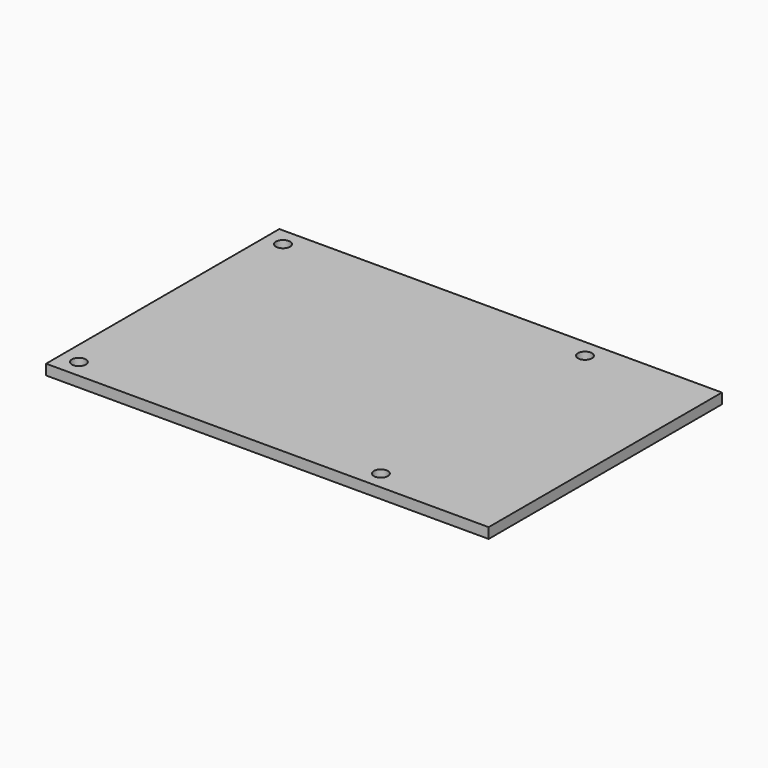
from build123d import *

# Parameters (mm, degrees)
CYLINDER014_R     = 1.35
CYLINDER014_DEPTH = 10
CYLINDER013_R     = 1.35
CYLINDER013_DEPTH = 10
CYLINDER012_R     = 1.35
CYLINDER012_DEPTH = 10
CYLINDER015_R     = 1.35
CYLINDER015_DEPTH = 10
BOX009_W          = 85
BOX009_H          = 56
BOX009_DEPTH      = 2


with BuildPart() as cylinder014:
    # Cylinder014 → Cylinder014 (new body)
    with BuildSketch(Plane(origin=(61.5, 52.5, 0), x_dir=(1, 0, 0), z_dir=(0, 0, 1))):
        Circle(CYLINDER014_R)
    extrude(amount=CYLINDER014_DEPTH)


with BuildPart() as cylinder013:
    # Cylinder013 → Cylinder013 (new body)
    with BuildSketch(Plane(origin=(3.5, 52.5, 0), x_dir=(1, 0, 0), z_dir=(0, 0, 1))):
        Circle(CYLINDER013_R)
    extrude(amount=CYLINDER013_DEPTH)


with BuildPart() as cylinder012:
    # Cylinder012 → Cylinder012 (new body)
    with BuildSketch(Plane(origin=(3.5, 3.5, 0), x_dir=(1, 0, 0), z_dir=(0, 0, 1))):
        Circle(CYLINDER012_R)
    extrude(amount=CYLINDER012_DEPTH)


with BuildPart() as fusion010004007010:
    # Cylinder015 → Cylinder015 (new body)
    with BuildSketch(Plane(origin=(61.5, 3.5, 0), x_dir=(1, 0, 0), z_dir=(0, 0, 1))):
        Circle(CYLINDER015_R)
    extrude(amount=CYLINDER015_DEPTH)

    # Fusion010004007010: union Cylinder014, Cylinder013, Cylinder012
    add(cylinder014.part)
    add(cylinder013.part)
    add(cylinder012.part)


with BuildPart() as obj1:
    # Box009 → Box009 (new body)
    with BuildSketch(Plane.XY):
        with Locations((42.5, 28)):
            Rectangle(BOX009_W, BOX009_H)
    extrude(amount=BOX009_DEPTH)

    # Cut003002002: cut Fusion010004007010
    add(fusion010004007010.part, mode=Mode.SUBTRACT)


with BuildPart() as obj1_1:
    # Cut003002002 placement: moved
    add(obj1.part.moved(Location((28, 128, 7))))


solid = obj1_1.part
